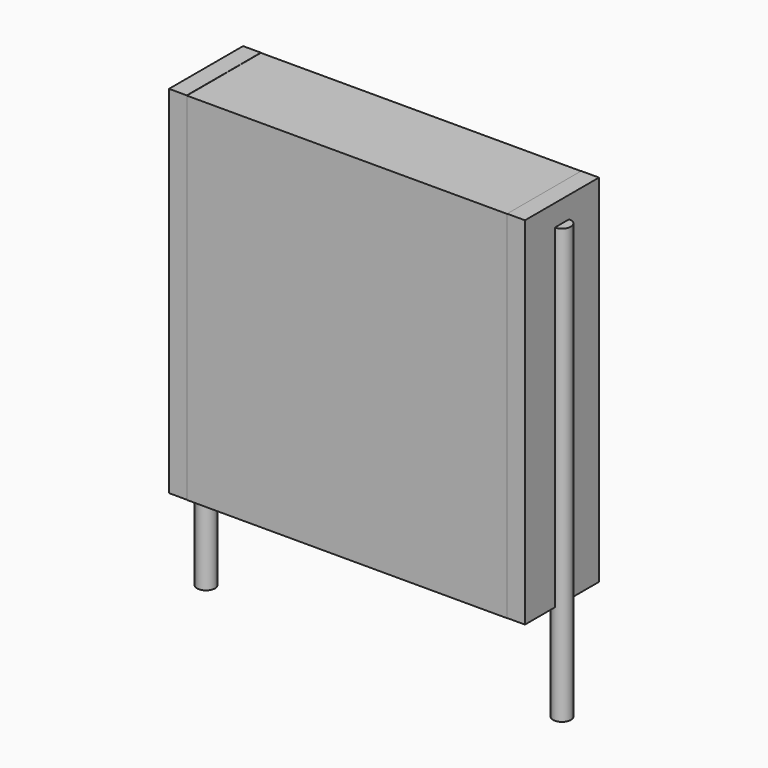
from build123d import *

# Parameters (mm, degrees)
SKETCH_W          = 9
SKETCH_H          = 2.6
PAD_DEPTH         = 10
SKETCH001_R       = 0.25
PAD001_DEPTH      = 9
PAD001_DEPTH_BACK = 3.2
SKETCH002_W       = 0.5
SKETCH002_H       = 2.6
PAD002_DEPTH      = 10


with BuildPart() as pad:
    # Sketch → Pad (new body)
    with BuildSketch(Plane.XY.offset(0.1)):
        with Locations((5, 0)):
            Rectangle(SKETCH_W, SKETCH_H)
    extrude(amount=PAD_DEPTH)


with BuildPart() as pad001:
    # Sketch001 → Pad001 (new body, two sides)
    with BuildSketch(Plane.XY.offset(0.5)) as pad001_sk:
        Circle(SKETCH001_R)
        with Locations((10, 0)):
            Circle(SKETCH001_R)
    extrude(amount=PAD001_DEPTH)
    extrude(pad001_sk.sketch, amount=-PAD001_DEPTH_BACK)


with BuildPart() as pad002:
    # Sketch002 → Pad002 (new body)
    with BuildSketch(Plane.XY.offset(0.105)):
        with Locations((0.25, 0)):
            Rectangle(SKETCH002_W, SKETCH002_H)
        with Locations((9.75, 0)):
            Rectangle(SKETCH002_W, SKETCH002_H)
    extrude(amount=PAD002_DEPTH)


solid = Compound([pad.part, pad001.part, pad002.part])
